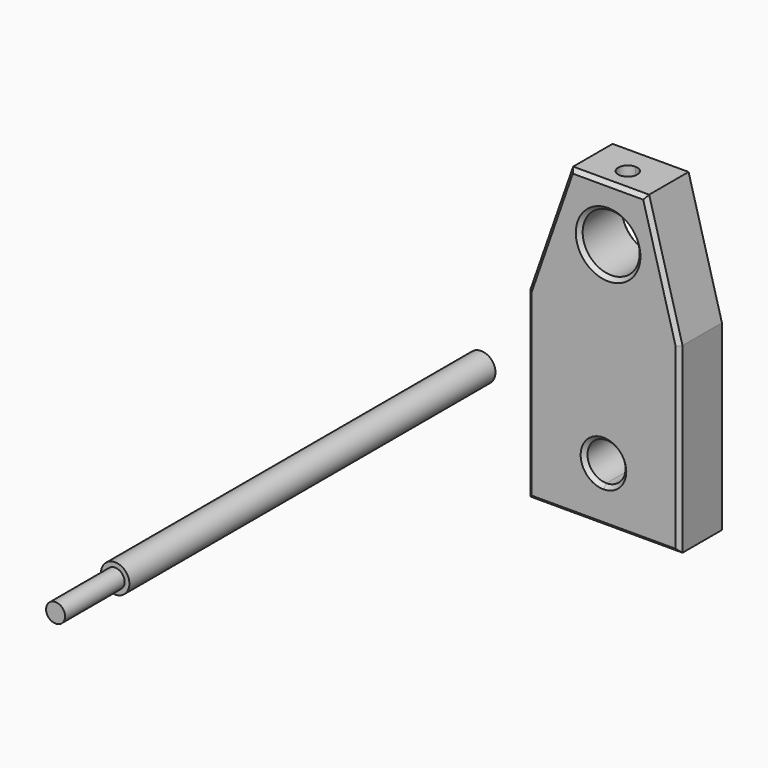
from build123d import *

# Parameters (mm, degrees)
F0_W      = 50.8
F0_H      = 60.96
F1_DEPTH  = 18.9992
F3_DEPTH  = 25.4
F5_DEPTH  = 25.4
F6_SIZE   = 1.27
F7_SIZE   = 1.27
F9_DEPTH  = 25.4
F10_R     = 4.7625
F11_DEPTH = 152.908
F12_R     = 3.175
F13_DEPTH = 24.892


with BuildPart() as f1:
    # F0 (on Front) → F1 (new body)
    with BuildSketch(Plane.XZ):
        Polygon((-6.790147, 46.160248), (-21.047119, 5.401799), (29.752881, 5.401799), (18.609853, 46.160248), align=None)
        with Locations((4.352881, -25.078201)):
            Rectangle(F0_W, F0_H)
    extrude(amount=F1_DEPTH)

    # F2 (on face) → F3 (cut)
    with BuildSketch(Plane.XZ.offset(18.9992)):
        with BuildLine():
            ThreePointArc((15.436803, 27.846848), (12.646424, 34.583419), (5.909853, 37.373798))
            ThreePointArc((5.909853, 37.373798), (-0.826718, 21.110277), (15.436803, 27.846848))
        make_face()
    extrude(amount=-F3_DEPTH, mode=Mode.SUBTRACT)

    # F4 (on face) → F5 (cut)
    with BuildSketch(Plane.XZ.offset(18.9992)):
        with BuildLine():
            ThreePointArc((10.702881, -37.016201), (-0.137247, -32.526073), (4.352881, -43.366201))
            ThreePointArc((4.352881, -43.366201), (8.843009, -41.506329), (10.702881, -37.016201))
        make_face()
    extrude(amount=-F5_DEPTH, mode=Mode.SUBTRACT)

    # F6
    f6_edges = [f1.edges().sort_by_distance(p)[0] for p in [
        (24.181367, -18.9992, 25.781023),
        (5.909853, -18.9992, 46.160248),
        (-13.918633, -18.9992, 25.781023),
        (-21.047119, -18.9992, -25.078201),
        (4.352881, -18.9992, -55.558201),
        (29.752881, -18.9992, -25.078201),
        (4.352881, -18.9992, -30.666201),
        (-3.617097, -18.9992, 27.846848),
    ]]
    chamfer(f6_edges, length=F6_SIZE)

    # F7
    f7_edges = [f1.edges().sort_by_distance(p)[0] for p in [
        (5.909853, 0, 46.160248),
        (-13.918633, 0, 25.781023),
        (-21.047119, 0, -25.078201),
        (4.352881, 0, -55.558201),
        (29.752881, 0, -25.078201),
        (24.181367, 0, 25.781023),
        (-3.617097, 0, 27.846848),
        (4.352881, 0, -30.666201),
    ]]
    chamfer(f7_edges, length=F7_SIZE)

    # F8 (on face) → F9 (cut)
    with BuildSketch(Plane.XY.offset(46.160248)):
        with BuildLine():
            ThreePointArc((9.084853, -10.795), (8.154917, -8.549936), (5.909853, -7.62))
            ThreePointArc((5.909853, -7.62), (3.664789, -13.040064), (9.084853, -10.795))
        make_face()
    extrude(amount=-F9_DEPTH, mode=Mode.SUBTRACT)


with BuildPart() as f11:
    # F10 (on Front) → F11 (new body)
    with BuildSketch(Plane.XZ):
        with Locations((-51.693011, -34.64333)):
            Circle(F10_R)
    extrude(amount=F11_DEPTH)

    # F12 (on face) → F13 (join)
    with BuildSketch(Plane.XZ.offset(152.908)):
        with Locations((-51.693011, -34.64333)):
            Circle(F12_R)
    extrude(amount=F13_DEPTH)


solid = Compound([f1.part, f11.part])
